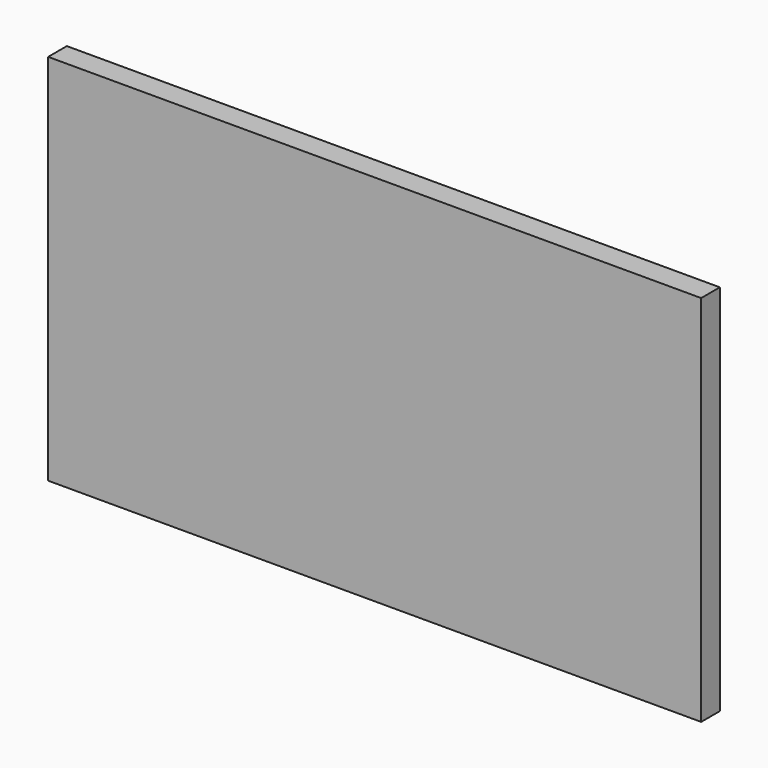
from build123d import *

# Parameters (mm, degrees)
F0_W     = 88.9
F0_H     = 5.08
F0_H_2   = 40.64
F1_DEPTH = 1.5875


with BuildPart() as f1:
    # F0 (on Front) → F1 (new body, symmetric)
    with BuildSketch(Plane.XZ):
        with Locations((0.652797, -26.433721)):
            Rectangle(F0_W, F0_H)
        with Locations((0.652797, -3.573721)):
            Rectangle(F0_W, F0_H_2)
        with Locations((0.652797, 19.286279)):
            Rectangle(F0_W, F0_H)
    extrude(amount=F1_DEPTH, both=True)


solid = f1.part
